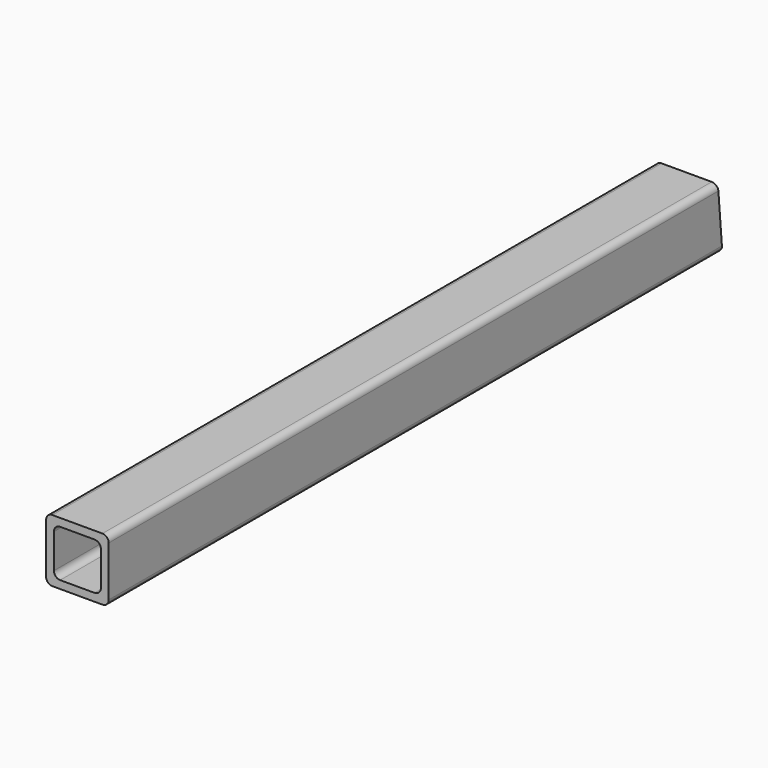
from build123d import *

# Parameters (mm, degrees)
F0_W     = 50.8
F0_H     = 50.8
F0_W_2   = 38.1
F0_H_2   = 38.1
F1_DEPTH = 311.15
F3_DEPTH = 50.8
F4_R     = 5.08


with BuildPart() as f1:
    # F0 (on Front) → F1 (new body, symmetric)
    with BuildSketch(Plane.XZ):
        Rectangle(F0_W, F0_H)
        Rectangle(F0_W_2, F0_H_2, mode=Mode.SUBTRACT)
    extrude(amount=F1_DEPTH, both=True)

    # F2 (on face) → F3 (cut)
    with BuildSketch(Plane(origin=(-25.4, 0, 0), x_dir=(0, -1, 0), z_dir=(-1, 0, 0))):
        Polygon((-306.705576, 25.4), (-311.15, 25.4), (-311.15, -25.4), align=None)
    extrude(amount=-F3_DEPTH, mode=Mode.SUBTRACT)

    # F4
    f4_edges = [f1.edges().sort_by_distance(p)[0] for p in [
        (25.4, -2.222212, 25.4),
        (-25.4, -2.222212, 25.4),
        (25.4, 0, -25.4),
        (-25.4, 0, -25.4),
        (19.05, -1.944436, 19.05),
        (-19.05, -1.944436, 19.05),
        (19.05, -0.277777, -19.05),
        (-19.05, -0.277777, -19.05),
    ]]
    fillet(f4_edges, radius=F4_R)


solid = f1.part
